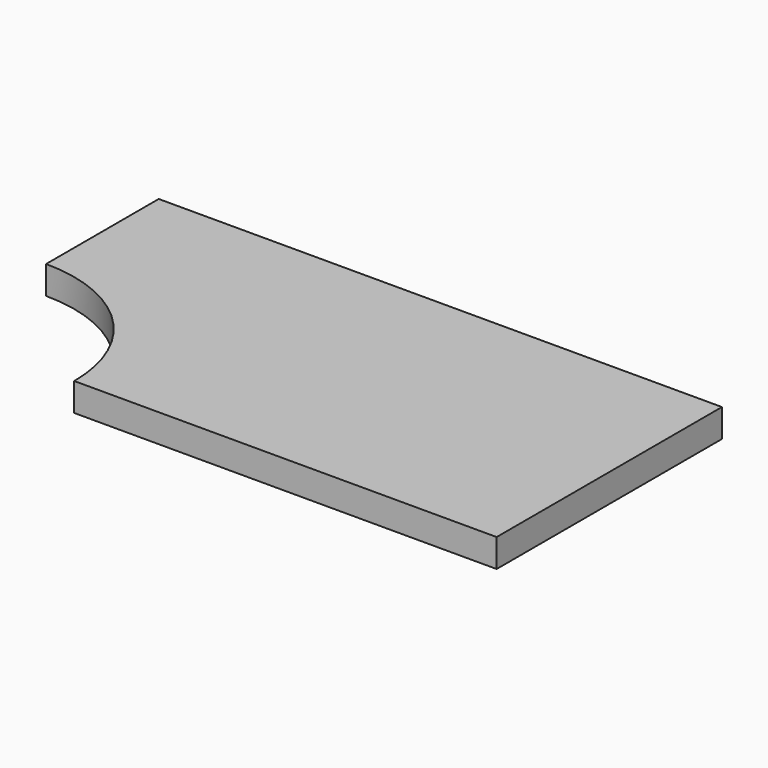
from build123d import *

# Parameters (mm, degrees)
CYLINDER_R     = 50
CYLINDER_DEPTH = 10
BOX_W          = 200
BOX_H          = 100
BOX_DEPTH      = 10


with BuildPart() as cylinder:
    # Cylinder → Cylinder (new body)
    with BuildSketch(Plane.XY):
        Circle(CYLINDER_R)
    extrude(amount=CYLINDER_DEPTH)


with BuildPart() as cut:
    # Box → Box (new body)
    with BuildSketch(Plane.XY):
        with Locations((100, 50)):
            Rectangle(BOX_W, BOX_H)
    extrude(amount=BOX_DEPTH)

    # Cut: cut Cylinder
    add(cylinder.part, mode=Mode.SUBTRACT)


solid = cut.part
